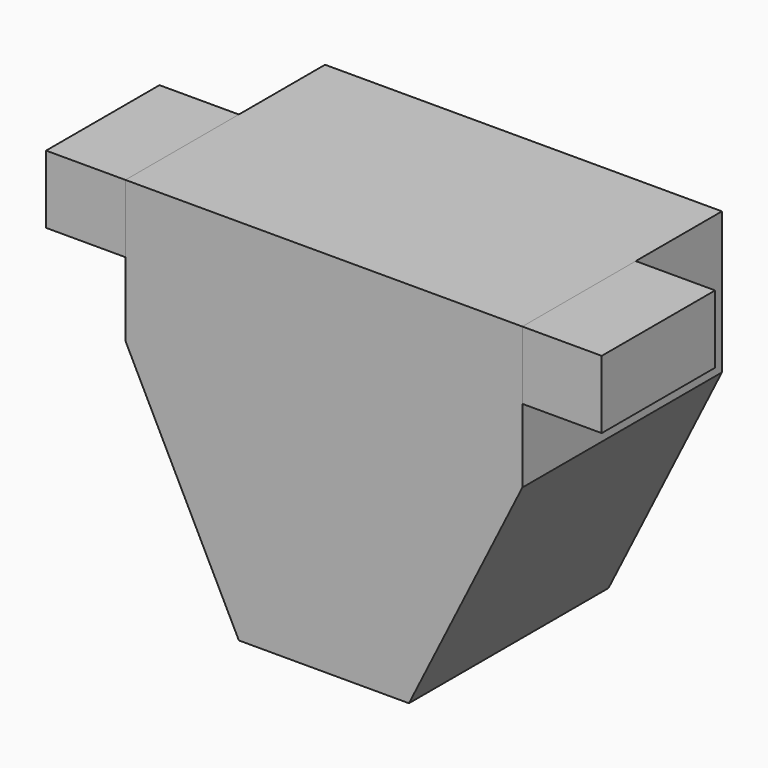
from build123d import *

# Parameters (mm, degrees)
F1_DEPTH = 440
F2_W     = 140
F2_H     = 120
F3_DEPTH = 250
F4_W     = 140
F4_H     = 120
F5_DEPTH = 250


with BuildPart() as f1:
    # F0 (on Front) → F1 (new body)
    with BuildSketch(Plane.XZ):
        Polygon((350, 75), (350, 325), (-350, 325), (-350, 75), (-150, -325), (150, -325), align=None)
    extrude(amount=F1_DEPTH)


with BuildPart() as f3:
    # F2 (on face) → F3 (new body)
    with BuildSketch(Plane.XZ.offset(440)):
        with Locations((-420, 265)):
            Rectangle(F2_W, F2_H)
    extrude(amount=-F3_DEPTH)


with BuildPart() as f5:
    # F4 (on face) → F5 (new body)
    with BuildSketch(Plane.XZ.offset(440)):
        with Locations((420, 265)):
            Rectangle(F4_W, F4_H)
    extrude(amount=-F5_DEPTH)


solid = Compound([f1.part, f3.part, f5.part])
